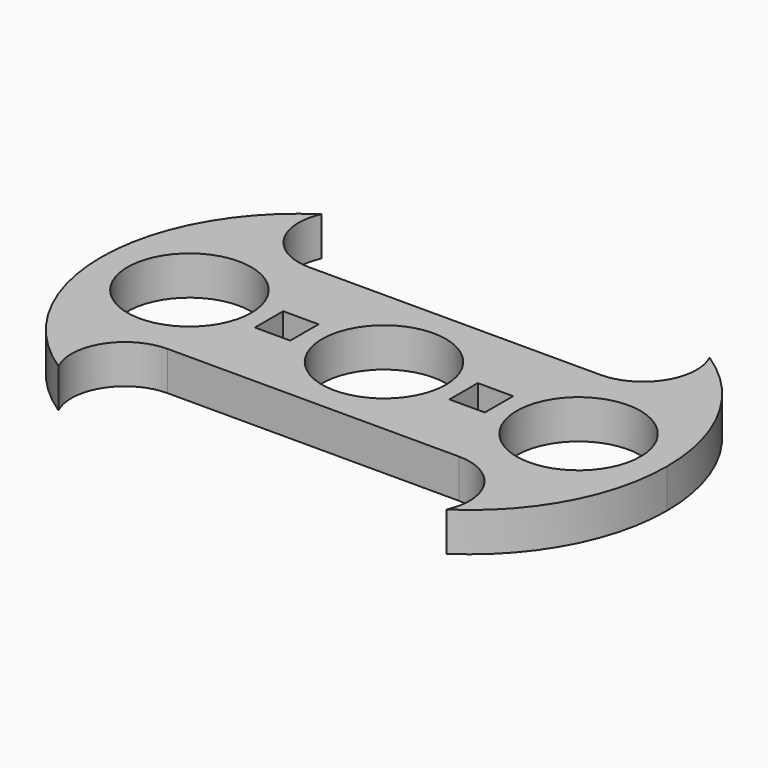
from build123d import *

# Parameters (mm, degrees)
F0_R     = 11.1125
F1_DEPTH = 7
F2_W     = 6.35
F2_H     = 6.35
F3_DEPTH = 7


with BuildPart() as f1:
    # F0 (on Top) → F1 (new body)
    with BuildSketch(Plane.XY):
        with BuildLine():
            ThreePointArc((-50.8, 0), (-46.15032, -11.22532), (-34.925, -15.875))
            Line((-34.925, -15.875), (-26.135577, -15.875))
            Line((-26.135577, -15.875), (26.135577, -15.875))
            Line((26.135577, -15.875), (34.925, -15.875))
            ThreePointArc((34.925, -15.875), (46.15032, -11.22532), (50.8, 0))
            ThreePointArc((50.8, 0), (46.15032, 11.22532), (34.925, 15.875))
            Line((34.925, 15.875), (26.135577, 15.875))
            Line((26.135577, 15.875), (-26.135577, 15.875))
            ThreePointArc((-26.135577, 15.875), (-34.22483, 20.309354), (-34.837518, 29.513925))
            ThreePointArc((-34.837518, 29.513925), (-46.553742, 16.777013), (-50.8, 0))
        make_face()
        with Locations((-34.925, 0)):
            Circle(F0_R, mode=Mode.SUBTRACT)
        Circle(F0_R, mode=Mode.SUBTRACT)
        with Locations((34.925, 0)):
            Circle(F0_R, mode=Mode.SUBTRACT)
        with BuildLine():
            Line((-26.135577, -15.875), (-34.925, -15.875))
            ThreePointArc((-34.925, -15.875), (-46.15032, -11.22532), (-50.8, 0))
            ThreePointArc((-50.8, 0), (-46.553742, -16.777013), (-34.837518, -29.513925))
            ThreePointArc((-34.837518, -29.513925), (-34.22483, -20.309354), (-26.135577, -15.875))
        make_face()
        with BuildLine():
            Line((34.925, -15.875), (26.135577, -15.875))
            ThreePointArc((26.135577, -15.875), (34.22483, -20.309354), (34.837518, -29.513925))
            ThreePointArc((34.837518, -29.513925), (46.553742, -16.777013), (50.8, 0))
            ThreePointArc((50.8, 0), (46.15032, -11.22532), (34.925, -15.875))
        make_face()
        with BuildLine():
            ThreePointArc((34.925, 15.875), (46.15032, 11.22532), (50.8, 0))
            ThreePointArc((50.8, 0), (46.553742, 16.777013), (34.837518, 29.513925))
            ThreePointArc((34.837518, 29.513925), (34.22483, 20.309354), (26.135577, 15.875))
            Line((26.135577, 15.875), (34.925, 15.875))
        make_face()
    extrude(amount=F1_DEPTH)

    # F2 (on face) → F3 (cut, through all)
    with BuildSketch(Plane.XY.offset(7)):
        with Locations((17.4625, 0)):
            Rectangle(F2_W, F2_H)
        with Locations((-17.4625, 0)):
            Rectangle(F2_W, F2_H)
    extrude(amount=-F3_DEPTH, mode=Mode.SUBTRACT)


solid = f1.part
